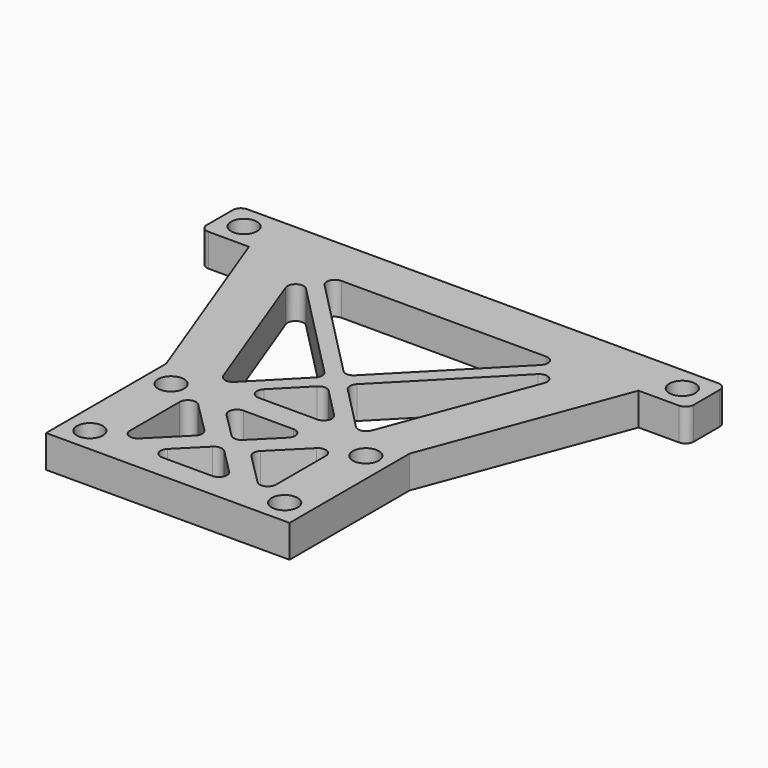
from build123d import *

# Parameters (mm, degrees)
F1_DEPTH = 4
F2_R     = 1.6
F3_DEPTH = 4
F5_DEPTH = 4
F6_R     = 1
F7_R     = 1
F9_DEPTH = 4
F10_R    = 1


with BuildPart() as f1:
    # F0 (on Top) → F1 (new body)
    with BuildSketch(Plane.XY):
        Polygon((-15, 9.25), (-15, -9.25), (15, -9.25), (15, 9.25), (24, 33.25), (30, 33.25), (30, 39.25), (-30, 39.25), (-30, 33.25), (-24, 33.25), align=None)
    extrude(amount=F1_DEPTH)

    # F2 (on face) → F3 (cut, through all)
    with BuildSketch(Plane.XY.offset(4)):
        with Locations((-12, 6.25)):
            Circle(F2_R)
        with Locations((12, 6.25)):
            Circle(F2_R)
        with Locations((-12, -6.25)):
            Circle(F2_R)
        with Locations((12, -6.25)):
            Circle(F2_R)
        with Locations((27, 36.25)):
            Circle(F2_R)
        with Locations((-27, 36.25)):
            Circle(F2_R)
    extrude(amount=-F3_DEPTH, mode=Mode.SUBTRACT)

    # F4 (on face) → F5 (cut, through all)
    with BuildSketch(Plane.XY.offset(4)):
        Polygon((-1.307755, 16.667609), (-17.591997, 33.25), (-8.591997, 9.25), align=None)
        Polygon((8.591997, 9.25), (17.591997, 33.25), (1.307755, 16.667609), align=None)
        Polygon((15, 33.25), (-15, 33.25), (0, 17.975365), align=None)
        Polygon((0, 15.359854), (-6, 9.25), (6, 9.25), align=None)
    extrude(amount=-F5_DEPTH, mode=Mode.SUBTRACT)

    # F6
    f6_edges = [f1.edges().sort_by_distance(p)[0] for p in [
        (17.591997, 33.25, 2),
        (15, 33.25, 2),
        (-15, 33.25, 2),
        (-17.591997, 33.25, 2),
        (0, 17.975365, 2),
        (8.591997, 9.25, 2),
        (-8.591997, 9.25, 2),
        (-6, 9.25, 2),
        (6, 9.25, 2),
        (0, 15.359854, 2),
        (-1.307755, 16.667609, 2),
        (1.307755, 16.667609, 2),
    ]]
    fillet(f6_edges, radius=F6_R)

    # F7
    f7_edges = [f1.edges().sort_by_distance(p)[0] for p in [
        (30, 39.25, 2),
        (30, 33.25, 2),
        (-30, 33.25, 2),
        (-30, 39.25, 2),
    ]]
    fillet(f7_edges, radius=F7_R)

    # F8 (on face) → F9 (cut, through all)
    with BuildSketch(Plane(origin=(0, 0, 0), x_dir=(1, 0, 0), z_dir=(0, 0, -1))):
        Polygon((-9, 6.25), (-9, -6.25), (-2.75, 0), align=None)
        Polygon((0, -0.744883), (-5.505117, -6.25), (5.505117, -6.25), align=None)
        Polygon((2.75, 0), (9, -6.25), (9, 6.25), align=None)
        Polygon((5.505117, 6.25), (-5.505117, 6.25), (0, 0.744883), align=None)
    extrude(amount=-F9_DEPTH, mode=Mode.SUBTRACT)

    # F10
    f10_edges = [f1.edges().sort_by_distance(p)[0] for p in [
        (-9, 6.25, 2),
        (-5.505117, 6.25, 2),
        (5.505117, 6.25, 2),
        (9, 6.25, 2),
        (-9, -6.25, 2),
        (-2.75, 0, 2),
        (5.505117, -6.25, 2),
        (9, -6.25, 2),
        (2.75, 0, 2),
        (0, -0.744883, 2),
        (-5.505117, -6.25, 2),
        (0, 0.744883, 2),
    ]]
    fillet(f10_edges, radius=F10_R)


solid = f1.part
